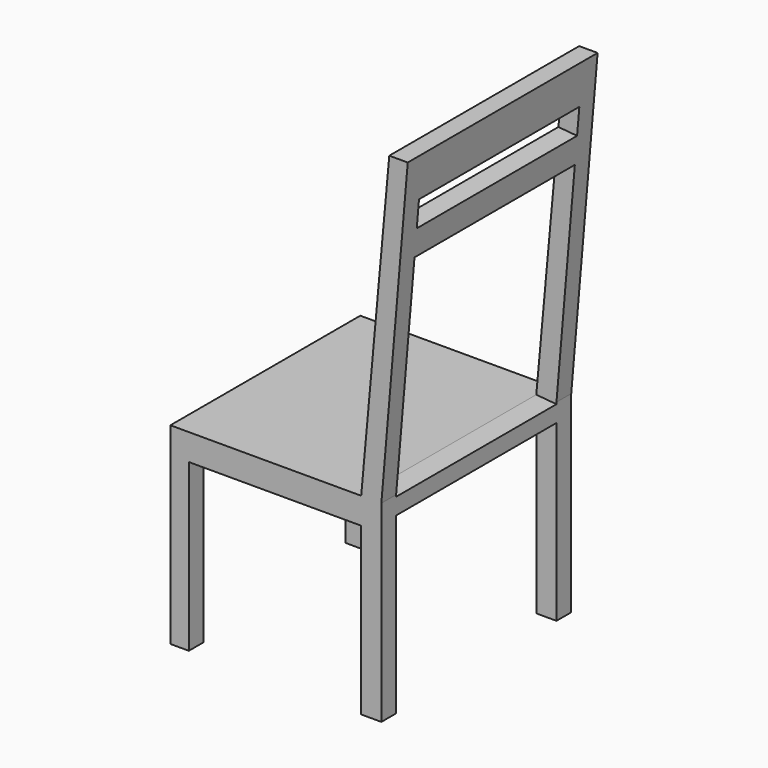
from build123d import *

# Parameters (mm, degrees)
F0_W     = 450
F0_H     = 450
F1_DEPTH = 950
F2_W     = 50
F2_H     = 315.0687813759
F2_W_2   = 326.7514157295
F3_DEPTH = 450.001
F5_DEPTH = 400.001
F6_W     = 380
F6_H     = 412.3499316829
F6_H_2   = 50
F7_DEPTH = 120.98296301


with BuildPart() as f1:
    # F0 (on Top) → F1 (new body)
    with BuildSketch(Plane.XY):
        Rectangle(F0_W, F0_H)
    extrude(amount=F1_DEPTH)

    # F2 (on face) → F3 (cut, through all)
    with BuildSketch(Plane.XZ.offset(225)):
        Polygon((-225, 950), (-225, 365.0687813759), (136.7514157295, 365.0687813759), (190, 950), align=None)
        Polygon((200, 657.5343906879), (175, 365.0687813759), (225, 365.0687813759), (225, 950), align=None)
        Polygon((225, 365.0687813759), (175, 365.0687813759), (175, 315.0687813759), (225, 315.0687813759), (225, 360.064893961), (225, 365.064893961), align=None)
        with Locations((200, 157.5343906879)):
            Rectangle(F2_W, F2_H)
        with Locations((-26.6242921352, 157.5343906879)):
            Rectangle(F2_W_2, F2_H)
    extrude(amount=-F3_DEPTH, mode=Mode.SUBTRACT)

    # F4 (on face) → F5 (cut, through all)
    with BuildSketch(Plane.YZ.offset(175)):
        Polygon((-190, 172.1675388782), (-190, 0), (190, 0), (190, 330.3755388782), (-190, 330.3755388782), align=None)
    extrude(amount=-F5_DEPTH, mode=Mode.SUBTRACT)

    # F6 (on face) → F7 (cut, through all)
    with BuildSketch(Plane(origin=(102.6669528821, 0, -9.3461756156), x_dir=(0, -1, 0), z_dir=(-0.9958819897, 0, 0.0906590457))):
        with Locations((0, 582.1381430631)):
            Rectangle(F6_W, F6_H)
        with Locations((0, 863.3131089045)):
            Rectangle(F6_W, F6_H_2)
    extrude(amount=-F7_DEPTH, mode=Mode.SUBTRACT)


solid = f1.part
